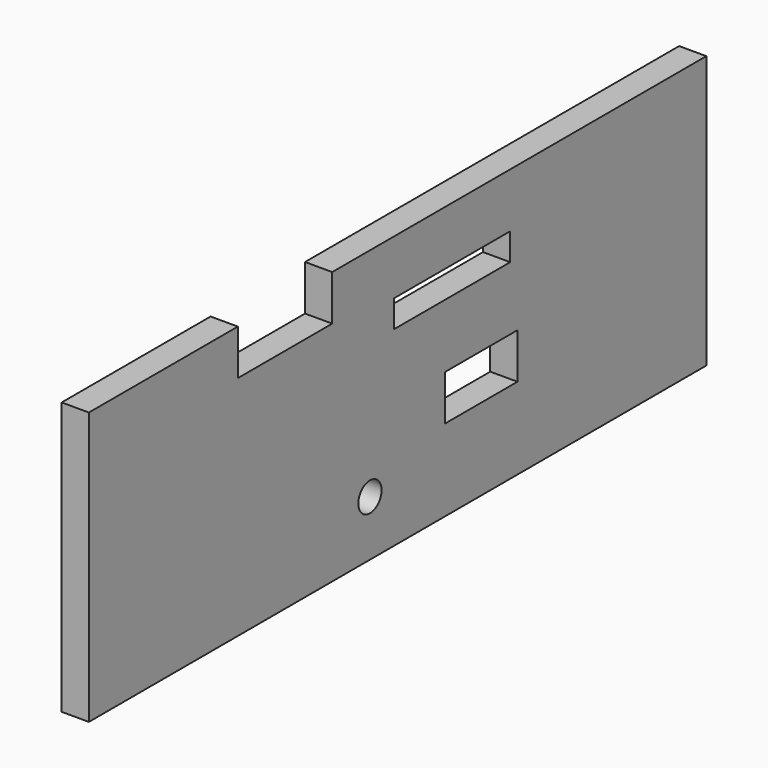
from build123d import *

# Parameters (mm, degrees)
CYLINDER026_R           = 1.6
CYLINDER026_DEPTH       = 10
CYLINDER026_PITCH_ANGLE = 90
BOX008_W                = 17
BOX008_H                = 10
BOX008_DEPTH            = 5
BOX019_W                = 6
BOX019_H                = 16
BOX019_DEPTH            = 3
BOX007_W                = 17
BOX007_H                = 13
BOX007_DEPTH            = 10
BOX002_W                = 3
BOX002_H                = 85
BOX002_DEPTH            = 30


with BuildPart() as front_hole:
    # Cylinder026 → Cylinder026 (new body)
    with BuildSketch(Plane.XY):
        Circle(CYLINDER026_R)
    extrude(amount=CYLINDER026_DEPTH)


with BuildPart() as front_hole_1:
    # Cylinder026 pitch: moved
    add(front_hole.part.rotate(Axis((0, 0, 0), (0, 1, 0)), CYLINDER026_PITCH_ANGLE))


with BuildPart() as front_hole_2:
    # Cylinder026 placement: moved
    add(front_hole_1.part.moved(Location((-7.4, 38.69, -18.9))))


with BuildPart() as usb_connector002:
    # Box008 → Box008 (new body)
    with BuildSketch(Plane(origin=(-11, 49, -16), x_dir=(1, 0, 0), z_dir=(0, 0, 1))):
        with Locations((8.5, 5)):
            Rectangle(BOX008_W, BOX008_H)
    extrude(amount=BOX008_DEPTH)


with BuildPart() as sd_card_reader:
    # Box019 → Box019 (new body)
    with BuildSketch(Plane(origin=(-8, 42, -4), x_dir=(1, 0, 0), z_dir=(0, 0, 1))):
        with Locations((3, 8)):
            Rectangle(BOX019_W, BOX019_H)
    extrude(amount=BOX019_DEPTH)


with BuildPart() as fusion:
    # Box007 → Box007 (new body)
    with BuildSketch(Plane(origin=(-11, 20.5, 0), x_dir=(1, 0, 0), z_dir=(0, 0, 1))):
        with Locations((8.5, 6.5)):
            Rectangle(BOX007_W, BOX007_H)
    extrude(amount=BOX007_DEPTH)

    # Fusion: union USB connector002, SD card reader
    add(usb_connector002.part)
    add(sd_card_reader.part)


with BuildPart() as final_front:
    # Box002 → Box002 (new body)
    with BuildSketch(Plane(origin=(-5, 0, -25), x_dir=(1, 0, 0), z_dir=(0, 0, 1))):
        with Locations((1.5, 42.5)):
            Rectangle(BOX002_W, BOX002_H)
    extrude(amount=BOX002_DEPTH)

    # Cut: cut Fusion
    add(fusion.part, mode=Mode.SUBTRACT)

    # Cut027: cut front hole
    add(front_hole_2.part, mode=Mode.SUBTRACT)


solid = final_front.part
